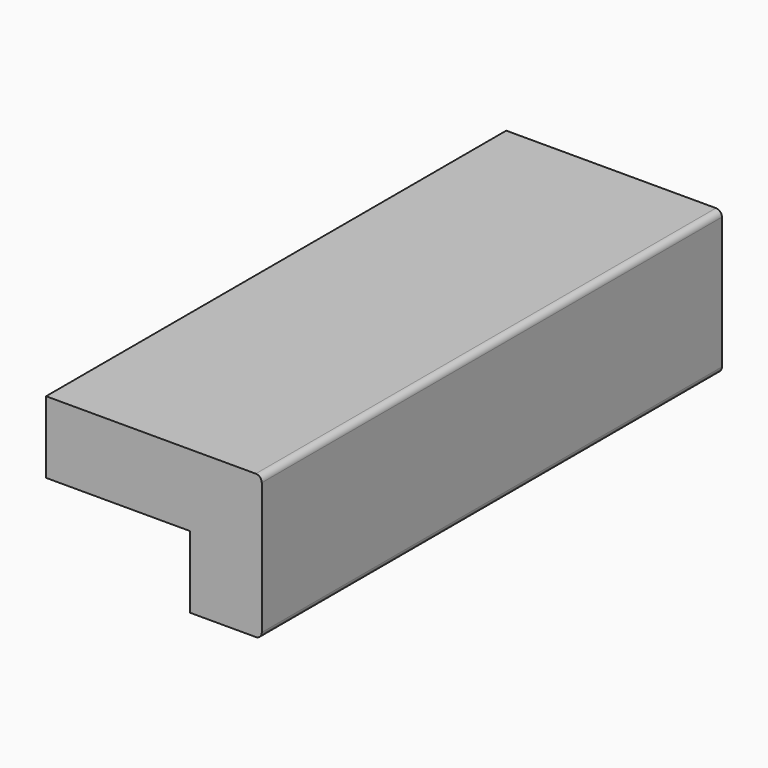
from build123d import *

# Parameters (mm, degrees)
F0_W     = 38.1
F0_H     = 19.05
F1_DEPTH = 152.4


with BuildPart() as f1:
    # F0 (on Front) → F1 (new body)
    with BuildSketch(Plane.XZ):
        with Locations((-9.525, 9.525)):
            Rectangle(F0_W, F0_H)
        with BuildLine():
            Line((26.9875, 19.05), (9.525, 19.05))
            Line((9.525, 19.05), (9.525, 0))
            Line((9.525, 0), (9.525, -19.05))
            Line((9.525, -19.05), (26.9875, -19.05))
            ThreePointArc((26.9875, -19.05), (28.110032, -18.585032), (28.575, -17.4625))
            Line((28.575, -17.4625), (28.575, 17.4625))
            ThreePointArc((28.575, 17.4625), (28.110032, 18.585032), (26.9875, 19.05))
        make_face()
    extrude(amount=F1_DEPTH)


solid = f1.part
